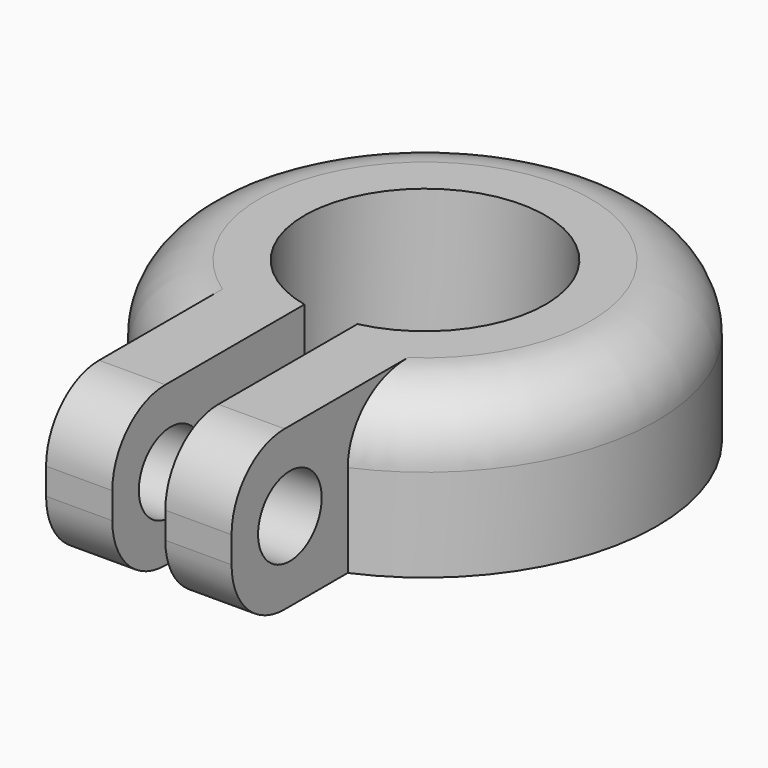
from build123d import *

# Parameters (mm, degrees)
CYLINDER001_R     = 17.5
CYLINDER001_DEPTH = 12
FILLET001_R       = 5
BOX003_W          = 14
BOX003_H          = 17
BOX003_DEPTH      = 12
CYLINDER002_R     = 9.1
CYLINDER002_DEPTH = 12
FILLET002_R       = 5
BOX004_W          = 4
BOX004_H          = 19
BOX004_DEPTH      = 12
SKETCH006_R       = 3
HOLE_DEPTH        = 25


with BuildPart() as part:
    # Cylinder001 → Cylinder001 (join)
    with BuildSketch(Plane.XY):
        Circle(CYLINDER001_R)
    extrude(amount=CYLINDER001_DEPTH)

    # Fillet001
    fillet001_edges = [part.edges().sort_by_distance(p)[0] for p in [
        (-17.5, 0, 12),
    ]]
    fillet(fillet001_edges, radius=FILLET001_R)

    # Box003 → Box003 (join)
    with BuildSketch(Plane(origin=(-7, -27, 0), x_dir=(1, 0, 0), z_dir=(0, 0, 1))):
        with Locations((7, 8.5)):
            Rectangle(BOX003_W, BOX003_H)
    extrude(amount=BOX003_DEPTH)

    # Cylinder002 → Cylinder002 (cut)
    with BuildSketch(Plane.XY):
        Circle(CYLINDER002_R)
    extrude(amount=CYLINDER002_DEPTH, mode=Mode.SUBTRACT)

    # Fillet002
    fillet002_edges = [part.edges().sort_by_distance(p)[0] for p in [
        (0, -27, 12),
        (0, -27, 0),
    ]]
    fillet(fillet002_edges, radius=FILLET002_R)

    # Box004 → Box004 (cut)
    with BuildSketch(Plane(origin=(-2, -27, 0), x_dir=(1, 0, 0), z_dir=(0, 0, 1))):
        with Locations((2, 9.5)):
            Rectangle(BOX004_W, BOX004_H)
    extrude(amount=BOX004_DEPTH, mode=Mode.SUBTRACT)

    # Sketch006 (on Face1 of Box004) → Hole (cut)
    with BuildSketch(Plane(origin=(7, -27, 0), x_dir=(0, 1, 0), z_dir=(1, 0, 0))):
        with Locations((5.5, 6)):
            Circle(SKETCH006_R)
    extrude(amount=-HOLE_DEPTH, mode=Mode.SUBTRACT)


with BuildPart() as part_1:
    # Body004 placement: moved
    add(part.part.moved(Location((-265, 0, 75))))


solid = part_1.part
